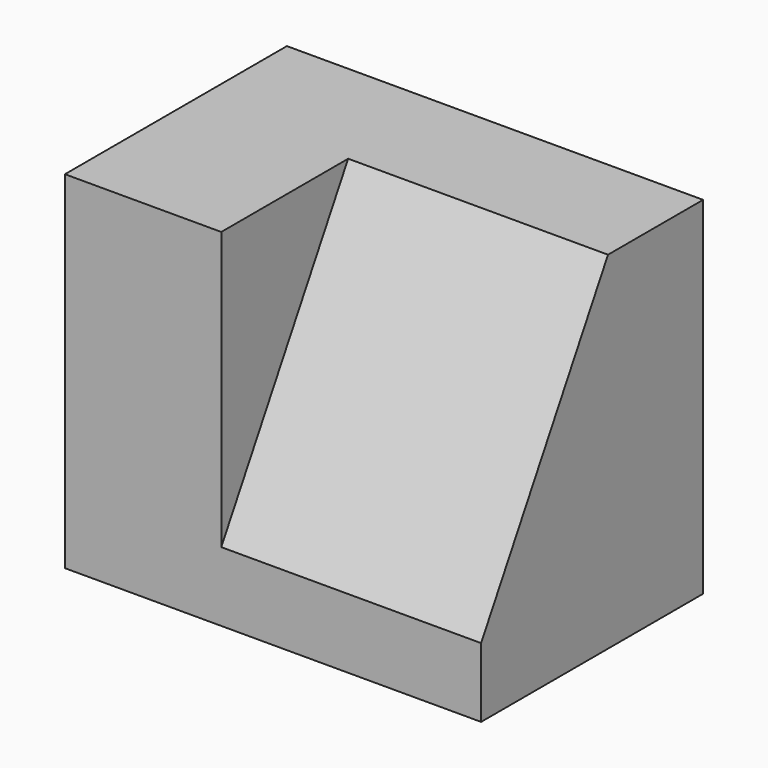
from build123d import *

# Parameters (mm, degrees)
F0_W     = 38.1
F0_H     = 31.75
F1_DEPTH = 25.4
F2_W     = 23.7869326904
F2_H     = 14.5215898097
F3_DEPTH = 25.4
F5_DEPTH = 25.4


with BuildPart() as f1:
    # F0 (on Front) → F1 (new body)
    with BuildSketch(Plane.XZ):
        with Locations((19.05, 15.875)):
            Rectangle(F0_W, F0_H)
    extrude(amount=F1_DEPTH)

    # F2 (on face) → F3 (cut)
    with BuildSketch(Plane.XY.offset(31.75)):
        with Locations((26.2065336548, -18.1392050952)):
            Rectangle(F2_W, F2_H)
    extrude(amount=-F3_DEPTH, mode=Mode.SUBTRACT)

    # F4 (on face) → F5 (join)
    with BuildSketch(Plane.YZ.offset(38.1)):
        Polygon((-10.8784101903, 31.75), (-25.4, 6.35), (-10.8784101903, 6.35), align=None)
    extrude(amount=-F5_DEPTH)


solid = f1.part
